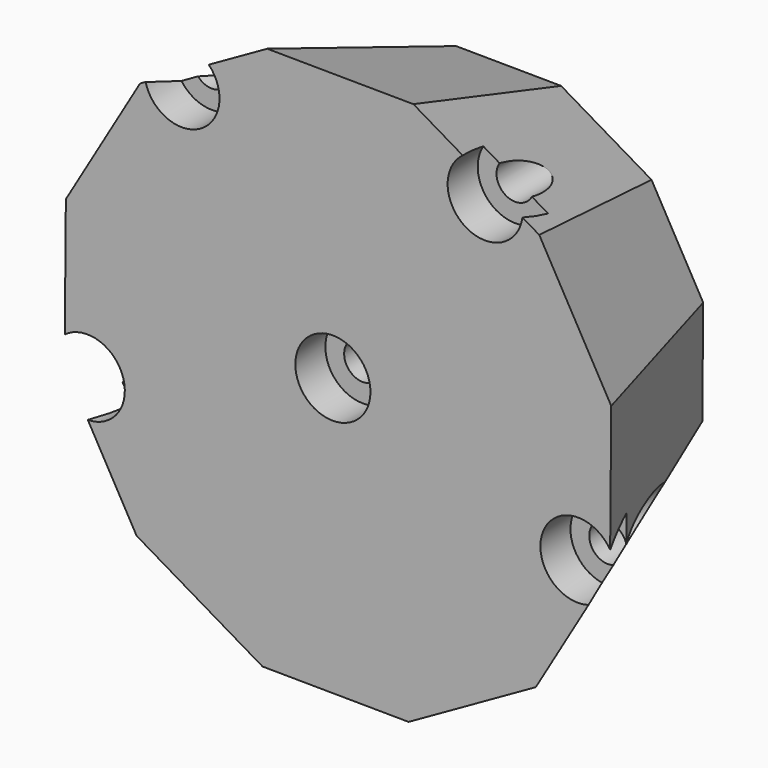
from build123d import *

# Parameters (mm, degrees)
F1_DEPTH       = 28.1119
F1_TAPER       = -20
F3_D           = 5
F3_CBORE_D     = 10
F3_CBORE_DEPTH = 5


with BuildPart() as f1:
    # F0 (on Front) → F1 (new body)
    with BuildSketch(Plane.XZ):
        Polygon((-37.6286933092, 1.1261076269), (-25.476778123, 8.0027721288), (-18.3912431181, 20.0340958739), (-18.270651677, 33.9962953808), (-25.1473161789, 46.148210567), (-37.178639924, 53.2337455719), (-51.1408394309, 53.354337013), (-63.2927546171, 46.4776725111), (-70.378289622, 34.446348766), (-70.4988810631, 20.4841492591), (-63.6222165612, 8.3322340729), (-51.5908928161, 1.246699068), align=None)
    extrude(amount=F1_DEPTH, taper=F1_TAPER)

    # F3 (through all)
    with Locations(Plane.XZ.offset(28.1119)):
        with Locations((-77.7391013168, 17.3710930631), (-65.139479872, 55.7104988926), (-24.7830409778, 55.5750747702), (-12.4410115211, 17.1519722301), (-45.0544580817, 27.8698503971)):
            CounterBoreHole(F3_D / 2, F3_CBORE_D / 2, F3_CBORE_DEPTH)


solid = f1.part
